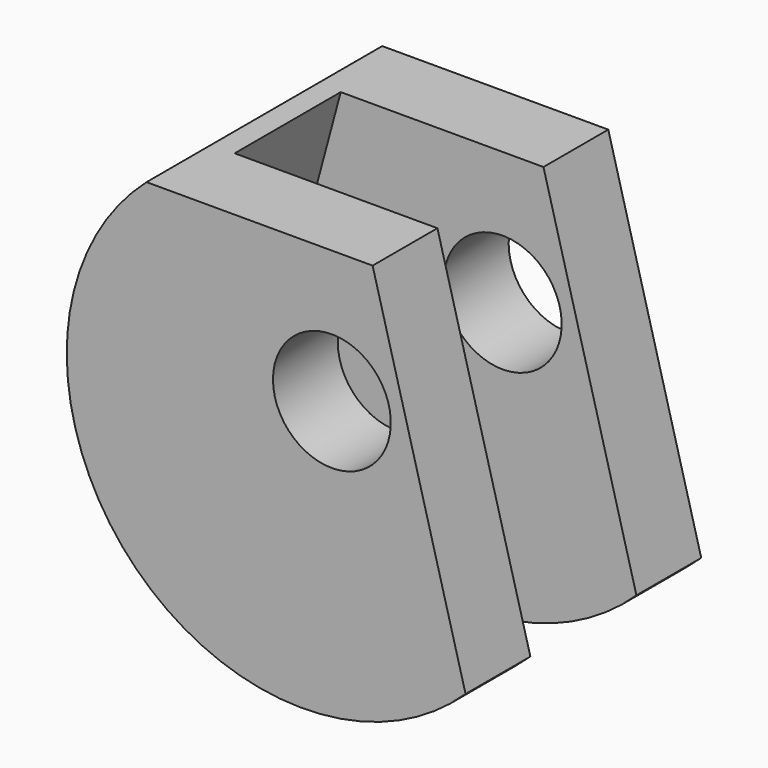
from build123d import *

# Parameters (mm, degrees)
F2_DEPTH = 10
F3_DEPTH = 4.5
F5_D     = 8
F7_D     = 6.6


with BuildPart() as f2:
    # F0 (on Front) → F2 (new body, symmetric)
    with BuildSketch(Plane.XZ):
        with BuildLine():
            Line((4.7648381702, 12), (-10.5830052443, 12))
            ThreePointArc((-10.5830052443, 12), (-11.7765474066, -10.831109416), (11.0744966927, -11.5479661847))
            Line((11.0744966927, -11.5479661847), (4.7648381702, 12))
        make_face()
    extrude(amount=F2_DEPTH, both=True)

    # F1 (on Front) → F3 (cut, symmetric)
    with BuildSketch(Plane.XZ):
        Polygon((11.0744966927, 12), (-9, 12), (-16.5025773881, -16), (11.0744966927, -16), align=None)
    extrude(amount=F3_DEPTH, both=True, mode=Mode.SUBTRACT)

    # F5 (through all)
    with Locations(Plane.XZ.offset(10)):
        with Locations((2, 3)):
            Hole(F5_D / 2)

    # F7 (through all)
    with Locations(Plane.YZ):
        with Locations((0, 0)):
            Hole(F7_D / 2)


solid = f2.part
